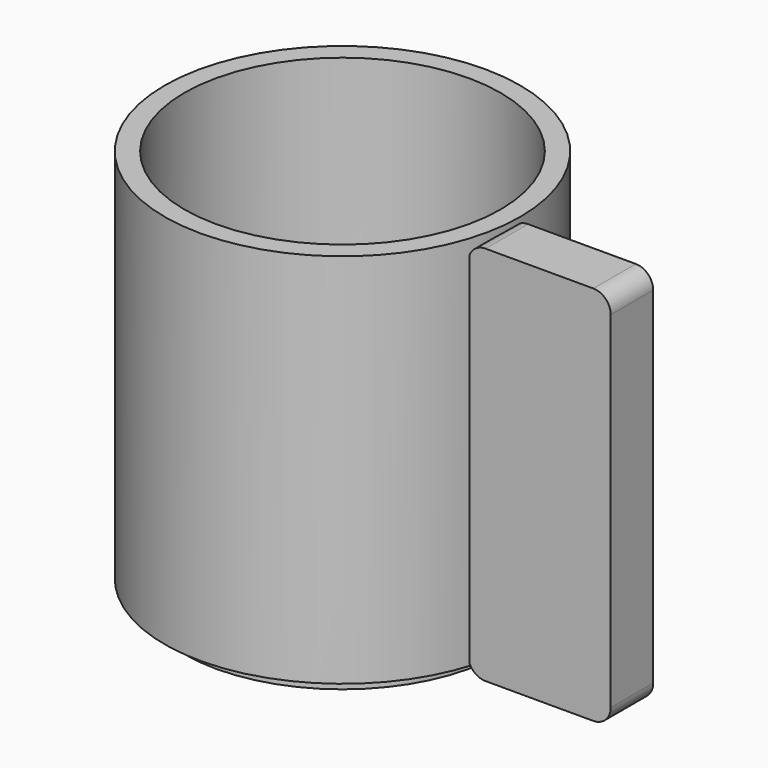
from build123d import *

# Parameters (mm, degrees)
F0_R     = 53.58861
F0_R_2   = 47.625
F1_DEPTH = 113.40259
F2_DEPTH = 4.574994
F4_DEPTH = 16.002


with BuildPart() as f1:
    # F0 (on Top) → F1 (new body)
    with BuildSketch(Plane.XY):
        Circle(F0_R)
        Circle(F0_R_2, mode=Mode.SUBTRACT)
    extrude(amount=F1_DEPTH)

    # F3 (on Front) → F4 (join)
    with BuildSketch(Plane.XZ):
        with BuildLine():
            Line((88.386922, 112.226754), (55.909471, 112.226754))
            ThreePointArc((55.909471, 112.226754), (52.205263, 110.692421), (50.670929, 106.988213))
            Line((50.670929, 106.988213), (50.670929, 2.748385))
            ThreePointArc((50.670929, 2.748385), (52.205263, -0.955823), (55.909471, -2.490156))
            Line((55.909471, -2.490156), (88.386922, -2.490156))
            ThreePointArc((88.386922, -2.490156), (92.09113, -0.955823), (93.625464, 2.748385))
            Line((93.625464, 2.748385), (93.625464, 106.988213))
            ThreePointArc((93.625464, 106.988213), (92.09113, 110.692421), (88.386922, 112.226754))
        make_face()
    extrude(amount=F4_DEPTH)


with BuildPart() as f2:
    # F0 (on Top) → F2 (new body)
    with BuildSketch(Plane.XY):
        Circle(F0_R_2)
    extrude(amount=-F2_DEPTH)


solid = Compound([f1.part, f2.part])
